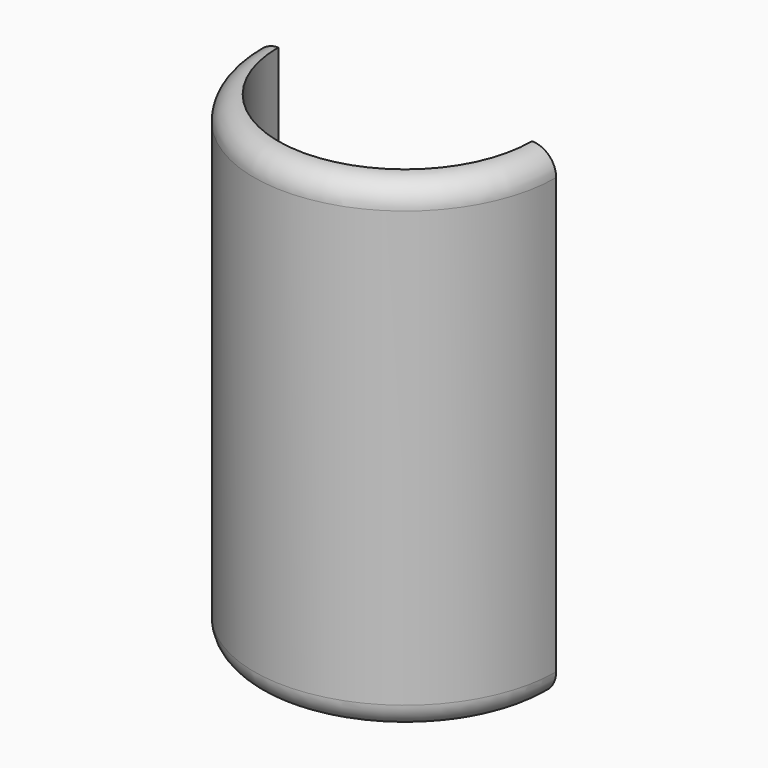
from build123d import *

# Parameters (mm, degrees)
F1_ANGLE = 180
F3_DEPTH = 40


with BuildPart() as f1:
    # F0 (on Front) → F1 (revolve)
    with BuildSketch(Plane.XZ):
        with BuildLine():
            Line((6.25, 20), (-4.25, 20))
            ThreePointArc((-4.25, 20), (-5.664214, 19.414214), (-6.25, 18))
            Line((-6.25, 18), (-6.25, -18))
            ThreePointArc((-6.25, -18), (-5.664214, -19.414214), (-4.25, -20))
            Line((-4.25, -20), (6.25, -20))
            Line((6.25, -20), (6.25, 20))
        make_face()
    revolve(axis=Axis((6.25, 0, 0), (0, 0, -1)), revolution_arc=F1_ANGLE)

    # F2 (on face) → F3 (cut)
    with BuildSketch(Plane.XY.offset(20)):
        with BuildLine():
            Line((-4.25, 0), (16.75, 0))
            ThreePointArc((16.75, 0), (6.25, 10.5), (-4.25, 0))
        make_face()
        with BuildLine():
            ThreePointArc((-4.25, 0), (6.25, -10.5), (16.75, 0))
            Line((16.75, 0), (-4.25, 0))
        make_face()
    extrude(amount=-F3_DEPTH, mode=Mode.SUBTRACT)


with BuildPart() as f4_1:
    # F4: instance of F1
    add(f1.part.mirror(Plane.XZ))


solid = f4_1.part
